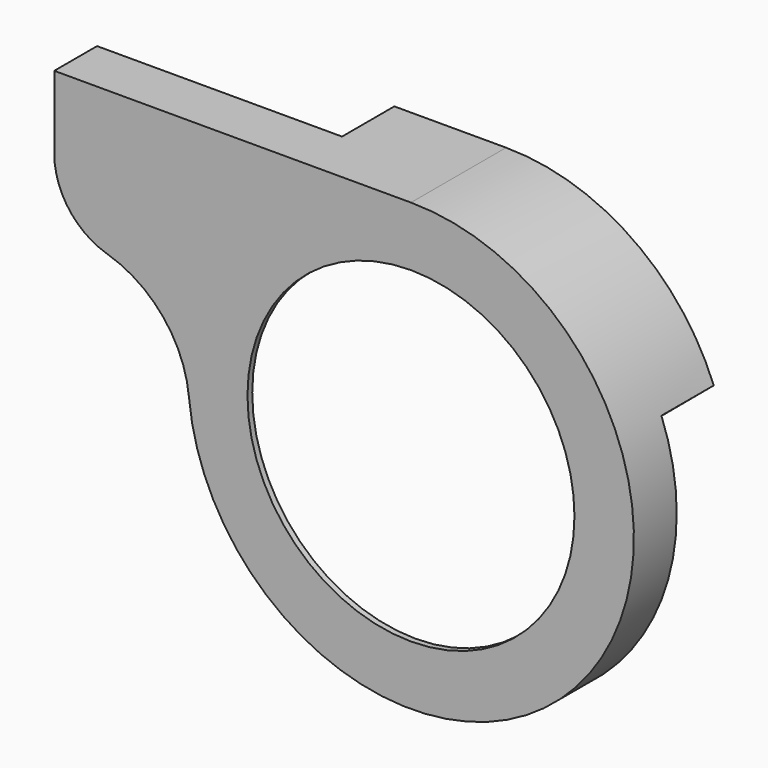
from build123d import *

# Parameters (mm, degrees)
SKETCH_R             = 55
PAD_DEPTH            = 40
POCKET_DEPTH         = 22
POCKET001_DEPTH      = 16
POCKET001_DEPTH_BACK = 1
SKETCH004_R          = 68.724133
SKETCH004_R_2        = 60.683335
POCKET002_DEPTH      = 0.5


with BuildPart() as part:
    # Sketch → Pad (new body)
    with BuildSketch(Plane.XZ):
        with BuildLine():
            Line((-120, 75), (0, 75))
            ThreePointArc((-74.66808, -7.048245), (55.468993, -50.479608), (0, 75))
            ThreePointArc((-74.66808, -7.048245), (-83.30852, 13.959176), (-102.203647, 26.566441))
            ThreePointArc((-120, 50.506104), (-115.063539, 35.591198), (-102.203647, 26.566441))
            Line((-120, 75), (-120, 50.506104))
        make_face()
        Circle(SKETCH_R, mode=Mode.SUBTRACT)
    extrude(amount=PAD_DEPTH)

    # Sketch001 (on Face7 of Pad) → Pocket (cut)
    with BuildSketch(Plane(origin=(0, 0, 0), x_dir=(1, 0, 0), z_dir=(0, 1, 0))):
        with BuildLine():
            Line((52.0812, -12.37154), (85.552437, -40.457244))
            ThreePointArc((85.552437, -40.457244), (20.73224, 92.337329), (-94.636188, 0))
            Line((-211.758942, -108.831918), (-94.636188, 0))
            Line((-43.560242, -108.831918), (-211.758942, -108.831918))
            Line((-32.965385, -48.745498), (-43.560242, -108.831918))
            Line((21.227394, -49.141674), (-32.965385, -48.745498))
            Line((52.0812, -12.37154), (21.227394, -49.141674))
        make_face()
    extrude(amount=-POCKET_DEPTH, mode=Mode.SUBTRACT)

    # Sketch003 (on Face2 of Pocket) → Pocket001 (cut, two sides)
    with BuildSketch(Plane(origin=(0, -22, 0), x_dir=(1, 0, 0), z_dir=(0, 1, 0))) as pocket001_sk:
        with BuildLine():
            ThreePointArc((0, -70), (66.404243, -22.146705), (42.018147, 55.986385))
            Line((42.018147, 55.986385), (62.226624, 86.16832))
            Line((62.226624, 86.16832), (-170.809082, 86.16832))
            Line((-170.809082, 86.16832), (-170.809082, -70))
            Line((-170.809082, -70), (0, -70))
        make_face()
    extrude(amount=-POCKET001_DEPTH, mode=Mode.SUBTRACT)
    extrude(pocket001_sk.sketch, amount=POCKET001_DEPTH_BACK, mode=Mode.SUBTRACT)

    # Sketch004 → Pocket002 (cut)
    with BuildSketch(Plane(origin=(0, -38, 0), x_dir=(-1, 0, 0), z_dir=(0, 1, 0))):
        Circle(SKETCH004_R)
        Circle(SKETCH004_R_2, mode=Mode.SUBTRACT)
    extrude(amount=-POCKET002_DEPTH, mode=Mode.SUBTRACT)


solid = part.part
